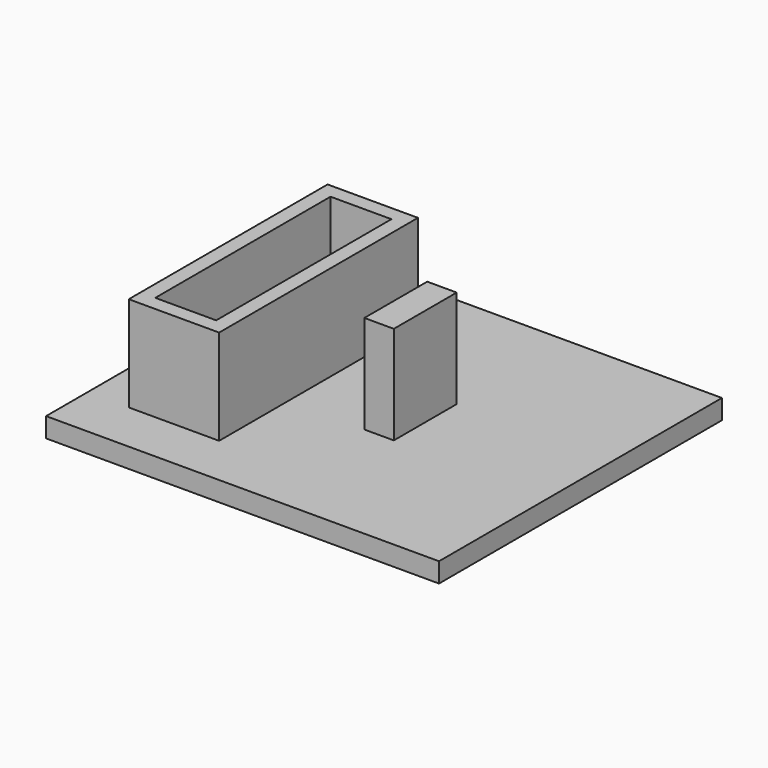
from build123d import *

# Parameters (mm, degrees)
F0_W     = 40
F0_H     = 36
F1_DEPTH = 2
F2_W     = 9.2
F2_H     = 25.3
F3_DEPTH = 9.7
F4_W     = 6.2
F4_H     = 22.3
F5_DEPTH = 8
F6_W     = 3
F6_H     = 8
F7_DEPTH = 10


with BuildPart() as f1:
    # F0 (on Top) → F1 (new body)
    with BuildSketch(Plane.XY):
        Rectangle(F0_W, F0_H)
    extrude(amount=F1_DEPTH)


with BuildPart() as f3:
    # F2 (on face) → F3 (new body)
    with BuildSketch(Plane.XY.offset(2)):
        with Locations((-11.2, -0.08)):
            Rectangle(F2_W, F2_H)
    extrude(amount=F3_DEPTH)

    # F4 (on face) → F5 (cut)
    with BuildSketch(Plane.XY.offset(11.7)):
        with Locations((-11.2, -0.08)):
            Rectangle(F4_W, F4_H)
    extrude(amount=-F5_DEPTH, mode=Mode.SUBTRACT)


with BuildPart() as f7:
    # F6 (on face) → F7 (new body)
    with BuildSketch(Plane.XY.offset(2)):
        with Locations((2.7, 0)):
            Rectangle(F6_W, F6_H)
    extrude(amount=F7_DEPTH)


solid = Compound([f1.part, f3.part, f7.part])
